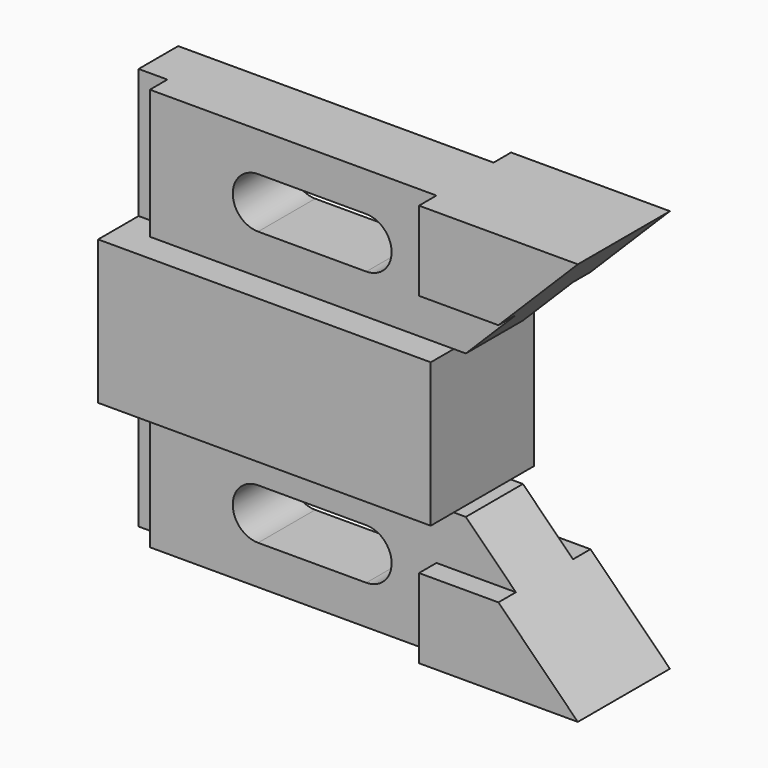
from build123d import *

# Parameters (mm, degrees)
F0_W     = 73.406
F0_H     = 15.875
F1_DEPTH = 14.224
F2_DEPTH = 7.874
F3_DEPTH = 12.7
F4_W     = 6.35
F4_H     = 4.826
F5_DEPTH = 28.575


with BuildPart() as f1:
    # F0 (on Front) → F1 (new body, symmetric)
    with BuildSketch(Plane.XZ):
        with Locations((36.703, -7.9375)):
            Rectangle(F0_W, F0_H)
    extrude(amount=F1_DEPTH, both=True)

    # F0 (on Front) → F2 (join, symmetric)
    with BuildSketch(Plane.XZ):
        Polygon((73.406, -15.875), (0, -15.875), (0, -44.45), (69.596, -44.45), (69.596, -26.924), (87.122, -26.924), (76.073, -15.875), align=None)
        with BuildLine():
            ThreePointArc((30.226, -35.814), (24.638, -30.226), (30.226, -24.638))
            Line((30.226, -24.638), (54.102, -24.638))
            ThreePointArc((54.102, -24.638), (59.69, -30.226), (54.102, -35.814))
            Line((54.102, -35.814), (30.226, -35.814))
        make_face(mode=Mode.SUBTRACT)
    extrude(amount=F2_DEPTH, both=True)

    # F0 (on Front) → F3 (join, symmetric)
    with BuildSketch(Plane.XZ):
        Polygon((69.596, -26.924), (69.596, -44.45), (104.648, -44.45), (87.122, -26.924), align=None)
    extrude(amount=F3_DEPTH, both=True)

    # F4 (on face) → F5 (cut, through all)
    with BuildSketch(Plane(origin=(0, 0, -44.45), x_dir=(1, 0, 0), z_dir=(0, 0, -1))):
        with Locations((3.175, 5.461)):
            Rectangle(F4_W, F4_H)
    extrude(amount=-F5_DEPTH, mode=Mode.SUBTRACT)

    # F7: F1 across plane


with BuildPart() as f1_1:
    add(f1.part)
    add(f1.part.mirror(Plane(origin=(36.703, 0, 0), x_dir=(1, 0, 0), z_dir=(0, 0, 1))))


solid = f1_1.part
